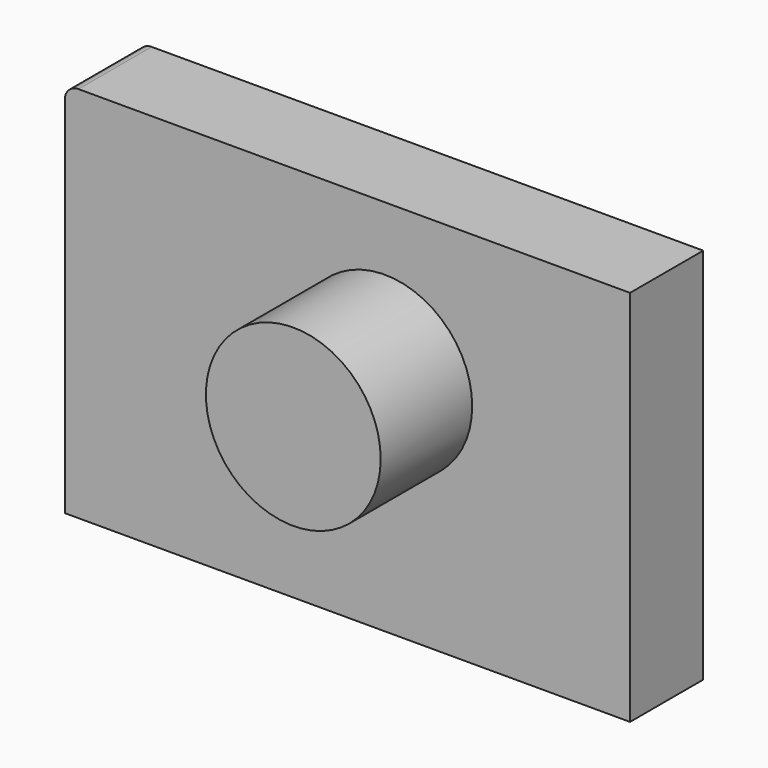
from build123d import *

# Parameters (mm, degrees)
F1_DEPTH = 20
F2_R     = 19.102377
F3_DEPTH = 25


with BuildPart() as f1:
    # F0 (on Front) → F1 (new body)
    with BuildSketch(Plane.XZ):
        with BuildLine():
            Line((53.605944, 33.028656), (-66.953859, 33.028656))
            ThreePointArc((-66.953859, 33.028656), (-69.075179, 32.149976), (-69.953859, 30.028656))
            Line((-69.953859, 30.028656), (-69.953859, -49.536757))
            Line((-69.953859, -49.536757), (53.605944, -49.536757))
            Line((53.605944, -49.536757), (53.605944, 33.028656))
        make_face()
    extrude(amount=F1_DEPTH)

    # F2 (on face) → F3 (join)
    with BuildSketch(Plane.XZ.offset(20)):
        Circle(F2_R)
    extrude(amount=F3_DEPTH)


solid = f1.part
